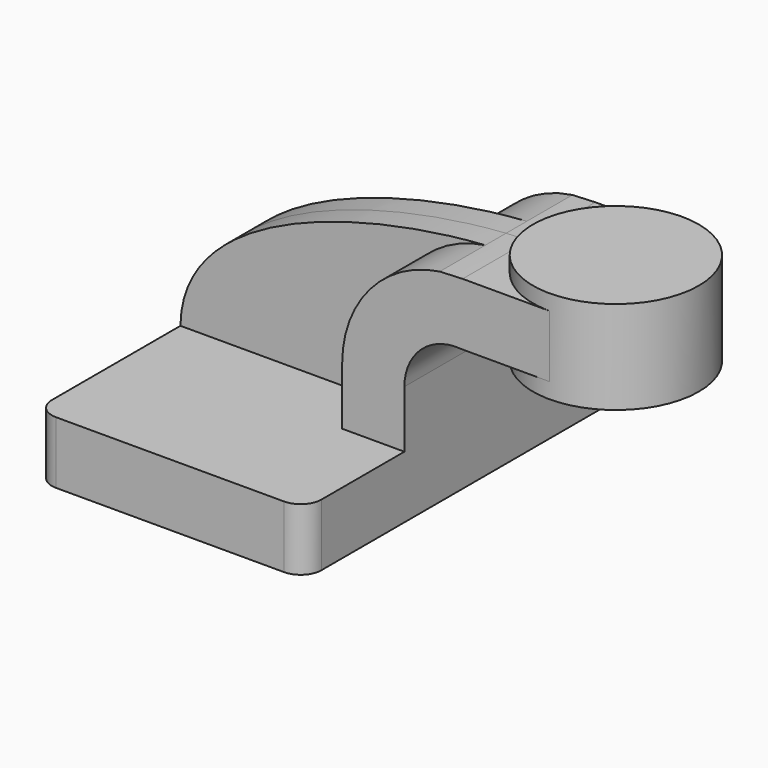
from build123d import *

# Parameters (mm, degrees)
F1_DEPTH = 63.5
F0_W     = 25.4
F0_H     = 19.05
F2_DEPTH = 25.4
F3_DEPTH = 7.9375
F5_R     = 6.35


with BuildPart() as f1:
    # F0 (on Front) → F1 (new body, symmetric)
    with BuildSketch(Plane.XZ):
        Polygon((-41.275, 9.525), (-41.275, -9.525), (41.275, -9.525), (41.275, 9.525), (22.225, 9.525), align=None)
    extrude(amount=F1_DEPTH, both=True)

    # F0 (on Front) → F2 (join, symmetric)
    with BuildSketch(Plane.XZ):
        with Locations((73.025, 52.4002)):
            Rectangle(F0_W, F0_H)
        with BuildLine():
            Line((22.225, 9.525), (41.275, 9.525))
            Line((41.275, 9.525), (41.275, 27.0553898889))
            ThreePointArc((41.275, 27.0553898889), (46.4024519933, 38.7389611256), (58.472585744, 42.8752))
            Line((58.472585744, 42.8752), (60.325, 42.8752))
            Line((60.325, 42.8752), (60.325, 61.9252))
            Line((60.325, 61.9252), (59.1126430697, 61.9252))
            add(Edge.make_bspline(
                [(52.0963677677, 61.6128265164), (54.5611233263, 61.7771008939), (56.9094353668, 61.8802274244), (59.1126430697, 61.9252)],
                knots=[105.759657983, 105.759657983, 105.759657983, 105.759657983, 113.2407163574, 113.2407163574, 113.2407163574, 113.2407163574], degree=3))
            ThreePointArc((52.0963677677, 61.6128265164), (30.7279095196, 49.894583387), (22.225, 27.0553898889))
            Line((22.225, 27.0553898889), (22.225, 9.525))
        make_face()
    extrude(amount=F2_DEPTH, both=True)

    # F0 (on Front) → F3 (join, symmetric)
    with BuildSketch(Plane.XZ):
        with BuildLine():
            add(Edge.make_bspline(
                [(-41.275, 9.525), (-40.8638526906, 44.7474616041), (17.2521396058, 59.2904810527), (52.0963677677, 61.6128265164)],
                knots=[0, 0, 0, 0, 105.759657983, 105.759657983, 105.759657983, 105.759657983], degree=3))
            Line((-41.275, 9.525), (22.225, 9.525))
            Line((22.225, 9.525), (22.225, 27.0553898889))
            ThreePointArc((22.225, 27.0553898889), (30.7279095196, 49.894583387), (52.0963677677, 61.6128265164))
        make_face()
    extrude(amount=F3_DEPTH, both=True)

    # F5
    f5_edges = [f1.edges().sort_by_distance(p)[0] for p in [
        (41.275, -63.5, 0),
        (-41.275, -63.5, 0),
        (41.275, 63.5, 0),
        (-41.275, 63.5, 0),
    ]]
    fillet(f5_edges, radius=F5_R)


with BuildPart() as f4:
    # F0 (on Front) → F4 (revolve)
    with BuildSketch(Plane.XZ):
        Polygon((85.725, 66.675), (85.725, 61.9252), (85.725, 42.8752), (85.725, 38.1), (111.125, 38.1), (111.125, 66.675), align=None)
    revolve(axis=Axis((85.725, 0, 52.3875), (0, 0, 1)))


solid = Compound([f1.part, f4.part])
